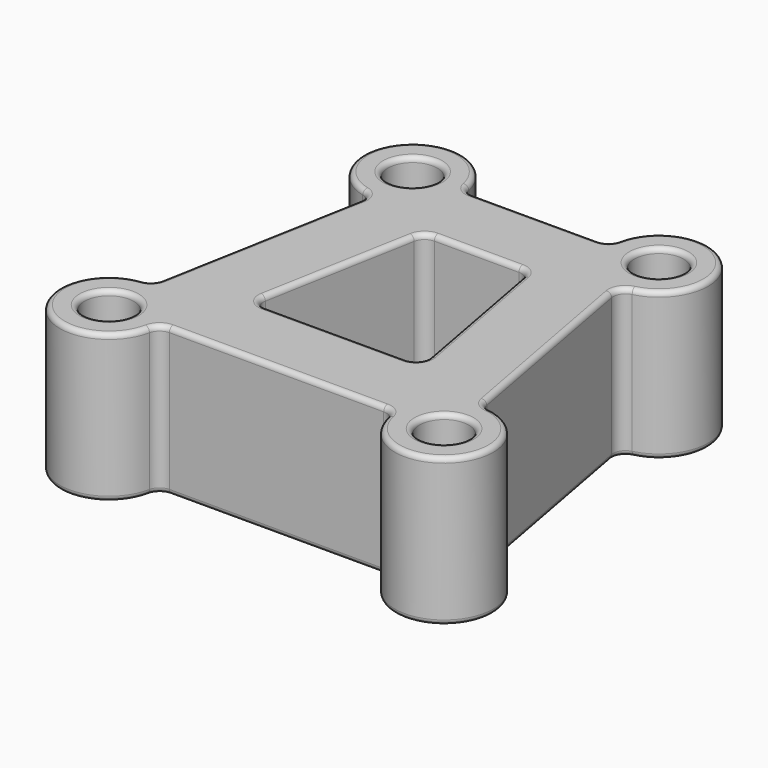
from build123d import *

# Parameters (mm, degrees)
F0_R     = 6.35
F1_DEPTH = 38.1
F2_R     = 1.27


with BuildPart() as f1:
    # F0 (on Top) → F1 (new body)
    with BuildSketch(Plane.XY):
        with BuildLine():
            ThreePointArc((-16.19574, 41.763722), (-18.203786, 42.479377), (-19.306592, 44.303722))
            ThreePointArc((-19.306592, 44.303722), (-40.569518, 50.90189), (-34.729866, 29.418261))
            ThreePointArc((-34.729866, 29.418261), (-32.813666, 28.063607), (-32.351226, 25.762942))
            Line((-32.351226, 25.762942), (-41.882221, -26.563022))
            ThreePointArc((-41.882221, -26.563022), (-42.834789, -28.310794), (-44.640662, -29.147999))
            ThreePointArc((-44.640662, -29.147999), (-52.538374, -50.349223), (-30.736592, -44.303722))
            ThreePointArc((-30.736592, -44.303722), (-29.633786, -42.479377), (-27.62574, -41.763722))
            Line((-27.62574, -41.763722), (27.62574, -41.763722))
            ThreePointArc((27.62574, -41.763722), (29.633786, -42.479377), (30.736592, -44.303722))
            ThreePointArc((30.736592, -44.303722), (52.491726, -50.399795), (44.777262, -29.164565))
            ThreePointArc((44.777262, -29.164565), (42.996368, -28.322872), (42.054636, -26.592794))
            Line((42.054636, -26.592794), (32.362383, 25.756172))
            ThreePointArc((32.362383, 25.756172), (32.820117, 28.061218), (34.73746, 29.420097))
            ThreePointArc((34.73746, 29.420097), (40.566707, 50.904602), (19.306592, 44.303722))
            ThreePointArc((19.306592, 44.303722), (18.203786, 42.479377), (16.19574, 41.763722))
            Line((16.19574, 41.763722), (-16.19574, 41.763722))
        make_face()
        with Locations((-43.18, -41.763722)):
            Circle(F0_R, mode=Mode.SUBTRACT)
        with Locations((43.18, -41.763722)):
            Circle(F0_R, mode=Mode.SUBTRACT)
        with Locations((-31.75, 41.763722)):
            Circle(F0_R, mode=Mode.SUBTRACT)
        with BuildLine():
            ThreePointArc((-18.012093, -22.713722), (-20.450028, -21.572708), (-21.1357, -18.969768))
            Line((-21.1357, -18.969768), (-14.017877, 20.107676))
            ThreePointArc((-14.017877, 20.107676), (-12.928257, 21.976657), (-10.894271, 22.713722))
            Line((-10.894271, 22.713722), (10.910805, 22.713722))
            ThreePointArc((10.910805, 22.713722), (12.94125, 21.979606), (14.032747, 20.11674))
            Line((14.032747, 20.11674), (21.267817, -18.960704))
            ThreePointArc((21.267817, -18.960704), (20.58676, -21.569167), (18.145876, -22.713722))
            Line((18.145876, -22.713722), (-18.012093, -22.713722))
        make_face(mode=Mode.SUBTRACT)
        with Locations((31.75, 41.763722)):
            Circle(F0_R, mode=Mode.SUBTRACT)
    extrude(amount=F1_DEPTH)

    # F2
    f2_edges = [f1.edges().sort_by_distance(p)[0] for p in [
        (18.203786, 42.479377, 38.1),
        (0, 41.763722, 38.1),
        (-18.203786, 42.479377, 38.1),
        (-40.569518, 50.90189, 38.1),
        (-32.813666, 28.063607, 38.1),
        (-37.116723, -0.40004, 38.1),
        (-42.834789, -28.310794, 38.1),
        (-52.538374, -50.349223, 38.1),
        (-29.633786, -42.479377, 38.1),
        (0, -41.763722, 38.1),
        (29.633786, -42.479377, 38.1),
        (52.491726, -50.399795, 38.1),
        (42.996368, -28.322872, 38.1),
        (37.208509, -0.418311, 38.1),
        (32.820117, 28.061218, 38.1),
        (40.566707, 50.904602, 38.1),
        (-49.53, -41.763722, 38.1),
        (36.83, -41.763722, 38.1),
        (-38.1, 41.763722, 38.1),
        (20.58676, -21.569167, 38.1),
        (0.066891, -22.713722, 38.1),
        (-20.450028, -21.572708, 38.1),
        (-17.576788, 0.568954, 38.1),
        (-12.928257, 21.976657, 38.1),
        (0.008267, 22.713722, 38.1),
        (12.94125, 21.979606, 38.1),
        (17.650282, 0.578018, 38.1),
        (25.4, 41.763722, 38.1),
        (18.203786, 42.479377, 0),
        (0, 41.763722, 0),
        (-18.203786, 42.479377, 0),
        (-40.569518, 50.90189, 0),
        (-32.813666, 28.063607, 0),
        (-37.116723, -0.40004, 0),
        (-42.834789, -28.310794, 0),
        (-52.538374, -50.349223, 0),
        (-29.633786, -42.479377, 0),
        (0, -41.763722, 0),
        (29.633786, -42.479377, 0),
        (52.491726, -50.399795, 0),
        (42.996368, -28.322872, 0),
        (37.208509, -0.418311, 0),
        (32.820117, 28.061218, 0),
        (40.566707, 50.904602, 0),
        (-49.53, -41.763722, 0),
        (36.83, -41.763722, 0),
        (-38.1, 41.763722, 0),
        (20.58676, -21.569167, 0),
        (0.066891, -22.713722, 0),
        (-20.450028, -21.572708, 0),
        (-17.576788, 0.568954, 0),
        (-12.928257, 21.976657, 0),
        (0.008267, 22.713722, 0),
        (12.94125, 21.979606, 0),
        (17.650282, 0.578018, 0),
        (25.4, 41.763722, 0),
    ]]
    fillet(f2_edges, radius=F2_R)


solid = f1.part
